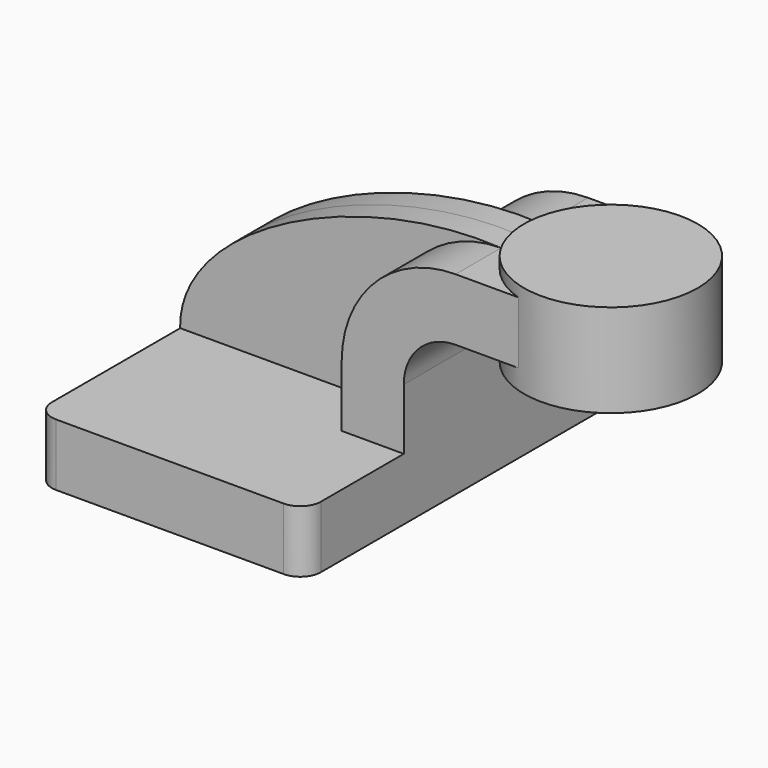
from build123d import *

# Parameters (mm, degrees)
F1_DEPTH = 63.5
F2_DEPTH = 25.4
F3_DEPTH = 7.9375
F0_W     = 24.147347727
F0_H     = 19.05
F4_DEPTH = 25.4
F6_R     = 6.35


with BuildPart() as f1:
    # F0 (on Front) → F1 (new body, symmetric)
    with BuildSketch(Plane.XZ):
        Polygon((-41.275, 9.525), (-41.275, -9.525), (41.275, -9.525), (41.275, 9.525), (22.225, 9.525), align=None)
    extrude(amount=F1_DEPTH, both=True)

    # F0 (on Front) → F2 (join, symmetric)
    with BuildSketch(Plane.XZ):
        with BuildLine():
            Line((22.225, 9.525), (41.275, 9.525))
            Line((41.275, 9.525), (41.275, 28.2702))
            ThreePointArc((41.275, 28.2702), (45.9246798487, 39.4955201513), (57.15, 44.1452))
            Line((57.15, 44.1452), (60.325, 44.1452))
            Line((60.325, 44.1452), (60.325, 63.1952))
            Line((60.325, 63.1952), (57.15, 63.1952))
            ThreePointArc((57.15, 63.1952), (32.4542956671, 52.9659043329), (22.225, 28.2702))
            Line((22.225, 28.2702), (22.225, 9.525))
        make_face()
    extrude(amount=F2_DEPTH, both=True)

    # F0 (on Front) → F3 (join, symmetric)
    with BuildSketch(Plane.XZ):
        with BuildLine():
            add(Edge.make_bspline(
                [(57.15, 63.1952), (12.8750428557, 65.7868459821), (-41.9757738709, 38.8200096786), (-41.275, 9.525)],
                knots=[0, 0, 0, 0, 112.1069622862, 112.1069622862, 112.1069622862, 112.1069622862], degree=3))
            Line((-41.275, 9.525), (22.225, 9.525))
            Line((22.225, 9.525), (22.225, 28.2702))
            ThreePointArc((22.225, 28.2702), (32.4542956671, 52.9659043329), (57.15, 63.1952))
        make_face()
    extrude(amount=F3_DEPTH, both=True)

    # F0 (on Front) → F4 (join, symmetric)
    with BuildSketch(Plane.XZ):
        with Locations((72.3986738635, 53.6702)):
            Rectangle(F0_W, F0_H)
    extrude(amount=F4_DEPTH, both=True)

    # F0 (on Front) → F5 (revolve)
    with BuildSketch(Plane.XZ):
        Polygon((84.472347727, 66.675), (84.472347727, 63.1952), (84.472347727, 44.1452), (84.472347727, 38.1), (111.125, 38.1), (111.125, 66.675), align=None)
    revolve(axis=Axis((84.472347727, 0, 52.3875), (0, 0, -1)))

    # F6
    f6_edges = [f1.edges().sort_by_distance(p)[0] for p in [
        (-41.275, -63.5, 0),
        (41.275, -63.5, 0),
        (-41.275, 63.5, 0),
        (41.275, 63.5, 0),
    ]]
    fillet(f6_edges, radius=F6_R)


solid = f1.part
